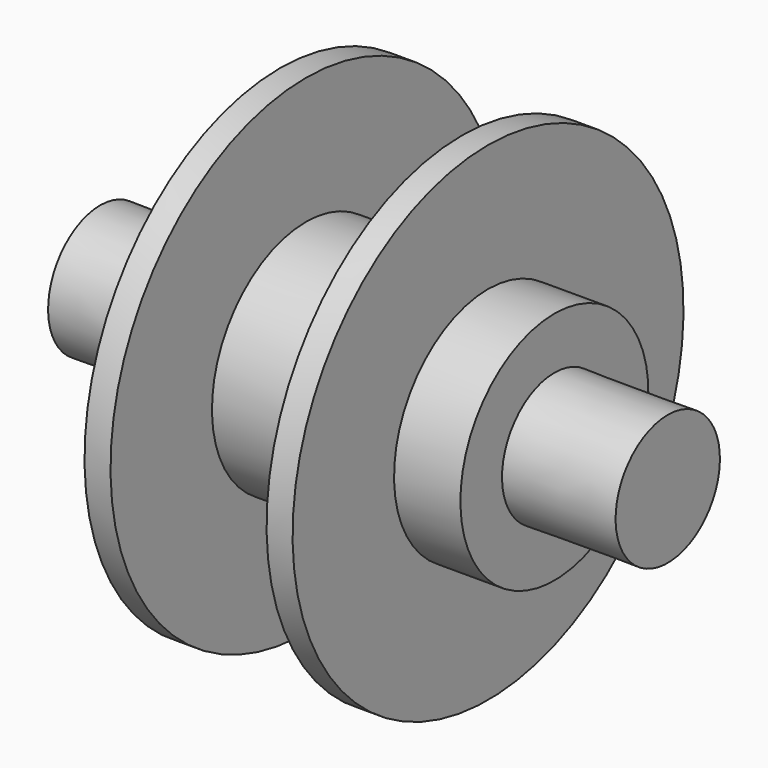
from build123d import *


with BuildPart() as f1:
    # F0 (on Front) → F1 (revolve)
    with BuildSketch(Plane.XZ):
        Polygon((-42.672, 0), (0, 0), (0, 17.670066), (-11.7348, 17.670066), (-11.7348, 36.745466), (-15.6464, 36.745466), (-15.6464, 17.670066), (-25.6286, 17.670066), (-25.6286, 9.846866), (-42.672, 9.8044), align=None)
    revolve(axis=Axis((-21.336, 0, 0), (-1, 0, 0)))

    # F2: F1 across plane


with BuildPart() as f1_1:
    add(f1.part)
    add(f1.part.mirror(Plane.YZ))


solid = f1_1.part
